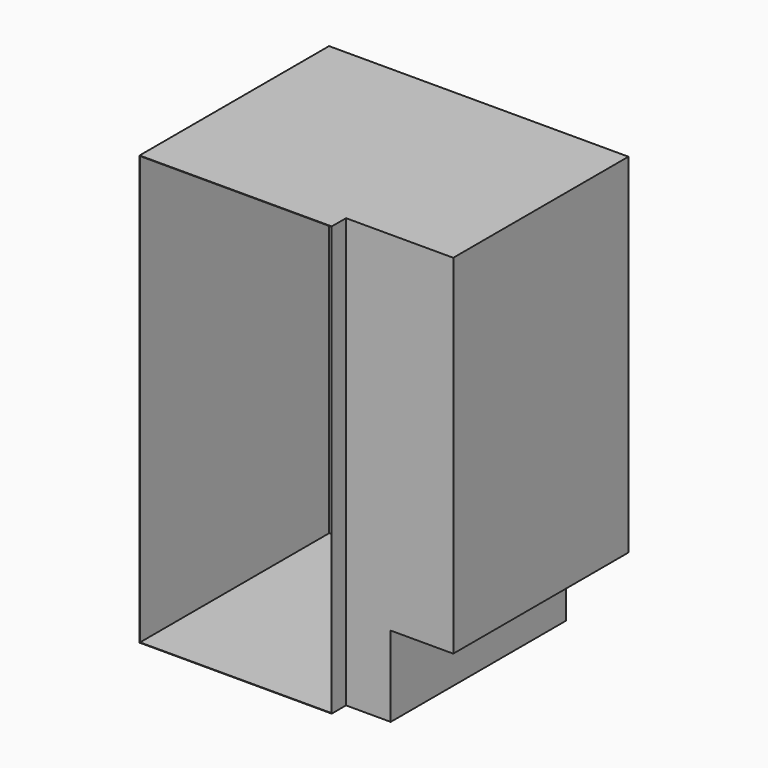
from build123d import *

# Parameters (mm, degrees)
F1_DEPTH = 1244.6
F3_DEPTH = 177.8
F4_W     = 1092.2
F4_H     = 2438.4
F5_DEPTH = 101.6
F6_T     = -2.54


with BuildPart() as f1:
    # F0 (on Front) → F1 (new body)
    with BuildSketch(Plane.XZ):
        Polygon((0, 2438.4), (0, 0), (1346.2, 0), (1346.2, 457.2), (1701.8, 457.2), (1701.8, 2438.4), align=None)
    extrude(amount=F1_DEPTH)

    # F2 (on Front) → F3 (join)
    with BuildSketch(Plane.XZ):
        Polygon((711.2, 1498.6), (711.2, 1346.2), (1041.4, 1346.2), (1041.4, 1498.6), (1193.8, 1498.6), (1193.8, 2133.6), (1041.4, 2133.6), (1041.4, 2286), (711.2, 2286), (711.2, 2133.6), (558.8, 2133.6), (558.8, 1498.6), align=None)
    extrude(amount=-F3_DEPTH)

    # F4 (on face) → F5 (join)
    with BuildSketch(Plane.XZ.offset(1244.6)):
        with Locations((546.1, 1219.2)):
            Rectangle(F4_W, F4_H)
    extrude(amount=F5_DEPTH)

    # F6
    f6_openings = [f1.faces().sort_by_distance(p)[0] for p in [
        (546.1, -1346.2, 1219.2),
        (876.3, 177.8, 1816.1),
    ]]
    offset(amount=F6_T, openings=f6_openings, kind=Kind.INTERSECTION)


solid = f1.part
